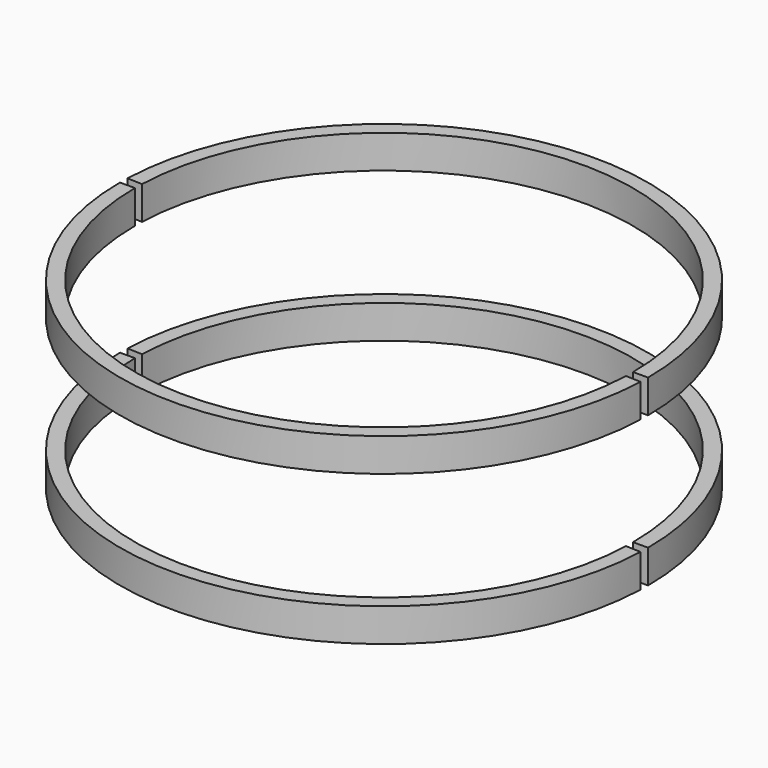
from build123d import *

# Parameters (mm, degrees)
CYLINDER081_R          = 22.45
CYLINDER081_DEPTH      = 17
CYLINDER080_W          = 23.8
CYLINDER080_H          = 3
CYLINDER080_ANGLE      = 178
CUT037_PLACEMENT_ANGLE = 180
CYLINDER079_R          = 22.45
CYLINDER079_DEPTH      = 17
CYLINDER078_W          = 23.8
CYLINDER078_H          = 3
CYLINDER078_ANGLE      = 178
CUT036_PLACEMENT_ANGLE = 180


with BuildPart() as cylinder081:
    # Cylinder081 → Cylinder081 (new body)
    with BuildSketch(Plane.XY):
        Circle(CYLINDER081_R)
    extrude(amount=CYLINDER081_DEPTH)


with BuildPart() as cylinder080:
    # Cylinder080 → Cylinder080 (revolve)
    with BuildSketch(Plane(origin=(0, 0, 1.8), x_dir=(1, 0, 0), z_dir=(0, -1, 0))):
        with Locations((11.9, 1.5)):
            Rectangle(CYLINDER080_W, CYLINDER080_H)
    revolve(axis=Axis((0, 0, 1.8), (0, 0, 1)), revolution_arc=CYLINDER080_ANGLE)


with BuildPart() as cut037:
    # Cut037 base: copy of Cylinder080
    add(cylinder080.part)

    # Cut037: cut Cylinder081
    add(cylinder081.part, mode=Mode.SUBTRACT)


with BuildPart() as cut037_1:
    # Cut037 placement: moved
    add(cut037.part.rotate(Axis((0, 0, 0), (0, 0, 1)), CUT037_PLACEMENT_ANGLE))


with BuildPart() as cylinder079:
    # Cylinder079 → Cylinder079 (new body)
    with BuildSketch(Plane.XY):
        Circle(CYLINDER079_R)
    extrude(amount=CYLINDER079_DEPTH)


with BuildPart() as cylinder078:
    # Cylinder078 → Cylinder078 (revolve)
    with BuildSketch(Plane(origin=(0, 0, 1.8), x_dir=(1, 0, 0), z_dir=(0, -1, 0))):
        with Locations((11.9, 1.5)):
            Rectangle(CYLINDER078_W, CYLINDER078_H)
    revolve(axis=Axis((0, 0, 1.8), (0, 0, 1)), revolution_arc=CYLINDER078_ANGLE)


with BuildPart() as fusion033:
    # Cut038 base: copy of Cylinder078
    add(cylinder078.part)

    # Cut038: cut Cylinder079
    add(cylinder079.part, mode=Mode.SUBTRACT)

    # Fusion033: union Cut037
    add(cut037_1.part)


with BuildPart() as cut036:
    # Cut036 base: copy of Cylinder080
    add(cylinder080.part)

    # Cut036: cut Cylinder081
    add(cylinder081.part, mode=Mode.SUBTRACT)


with BuildPart() as cut036_1:
    # Cut036 placement: moved
    add(cut036.part.rotate(Axis((0, 0, 0), (0, 0, 1)), CUT036_PLACEMENT_ANGLE))


with BuildPart() as rim_inner_rear_support:
    # Cut035 base: copy of Cylinder078
    add(cylinder078.part)

    # Cut035: cut Cylinder079
    add(cylinder079.part, mode=Mode.SUBTRACT)

    # Fusion032: union Cut036
    add(cut036_1.part)


with BuildPart() as rim_inner_rear_support_1:
    # Fusion032 placement: moved
    add(rim_inner_rear_support.part.moved(Location((0, 0, 13.5))))

    # Fusion034: union Fusion033
    add(fusion033.part)


with BuildPart() as rim_inner_rear_support_2:
    # Fusion034 placement: moved
    add(rim_inner_rear_support_1.part.moved(Location((0, 0, -44))))


solid = rim_inner_rear_support_2.part
